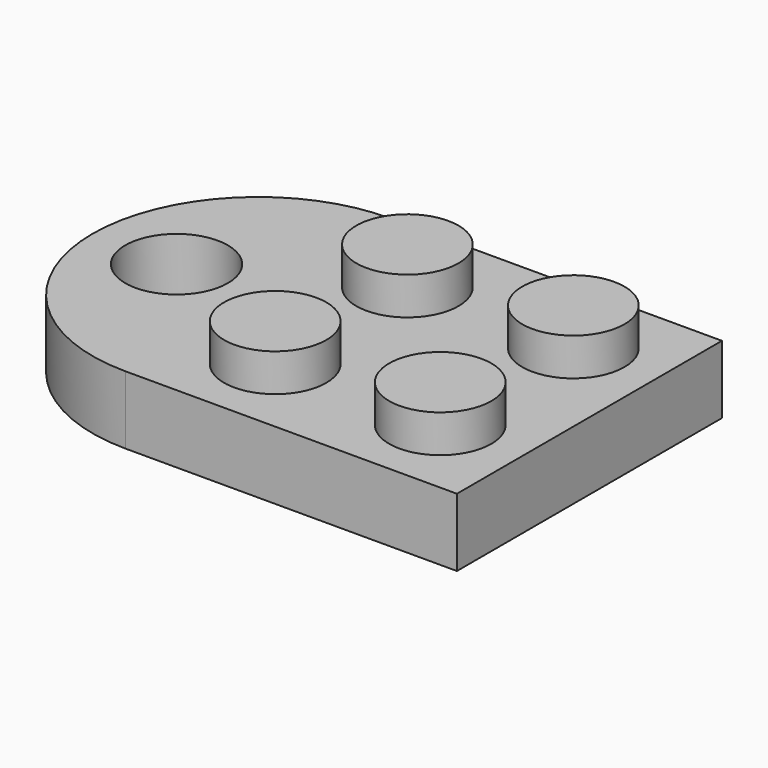
from build123d import *

# Parameters (mm, degrees)
F0_W     = 15.82
F0_H     = 15.82
F1_DEPTH = 3.25
F2_R     = 2.44
F3_DEPTH = 1.8
F4_W     = 12.9
F4_H     = 12.9
F4_R     = 3.125
F5_DEPTH = 2.01
F6_R     = 2.45
F7_DEPTH = 25


with BuildPart() as f1:
    # F0 (on Top) → F1 (new body)
    with BuildSketch(Plane.XY):
        with Locations((1.526456, -1.522328)):
            Rectangle(F0_W, F0_H)
        with BuildLine():
            ThreePointArc((-6.383544, 6.387672), (-14.293544, -1.522328), (-6.383544, -9.432328))
            Line((-6.383544, -9.432328), (-6.383544, 6.387672))
        make_face()
    extrude(amount=F1_DEPTH)

    # F2 (on face) → F3 (join)
    with BuildSketch(Plane.XY.offset(3.25)):
        with Locations((-2.423831, 2.437297)):
            Circle(F2_R)
        with Locations((5.484728, 2.457458)):
            Circle(F2_R)
        with Locations((5.483022, -5.48487)):
            Circle(F2_R)
        with Locations((-2.401933, -5.481959)):
            Circle(F2_R)
    extrude(amount=F3_DEPTH)

    # F4 (on face) → F5 (cut)
    with BuildSketch(Plane.XY):
        with Locations((1.526456, -1.522328)):
            Rectangle(F4_W, F4_H)
        with Locations((1.526456, -1.522328)):
            Circle(F4_R, mode=Mode.SUBTRACT)
    extrude(amount=F5_DEPTH, mode=Mode.SUBTRACT)

    # F6 (on face) → F7 (cut)
    with BuildSketch(Plane.XY.offset(3.25)):
        with Locations((-10.308685, -1.488805)):
            Circle(F6_R)
    extrude(amount=-F7_DEPTH, mode=Mode.SUBTRACT)


solid = f1.part
